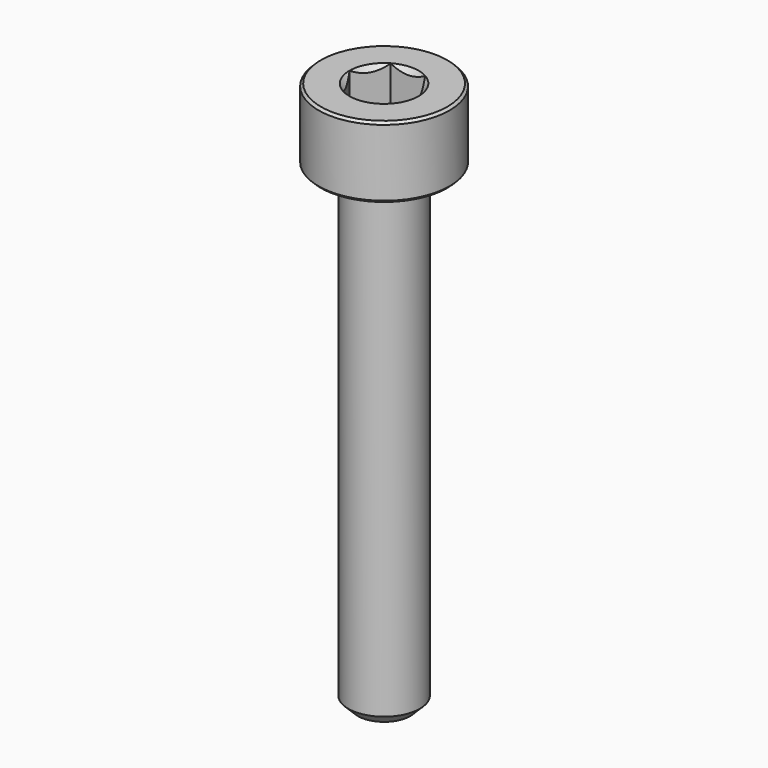
from build123d import *

# Parameters (mm, degrees)
SKETCH001_R     = 3.75
POCKET_DEPTH    = 9.70192
CHAMFER_SIZE    = 0.4
CHAMFER001_SIZE = 0.1


with BuildPart() as pocket:
    # Sketch003 → Revolution001 (revolve)
    with BuildSketch(Plane.XZ):
        Polygon((0, 0.29908), (2.75, 1.3), (2.75, 10), (0, 10), align=None)
    revolve(axis=Axis((0, 0, 0), (0, 0, 1)))

    # Sketch001 → Pocket (cut, through all)
    with BuildSketch(Plane(origin=(0, 0, 10), x_dir=(-1, 0, 0), z_dir=(0, 0, 1))):
        Circle(SKETCH001_R)
        Polygon((-0.721688, 1.25), (0.721688, 1.25), (1.443376, 0), (0.721688, -1.25), (-0.721688, -1.25), (-1.443376, 0), align=None, mode=Mode.SUBTRACT)
    extrude(amount=-POCKET_DEPTH, mode=Mode.SUBTRACT)


with BuildPart() as chamfer001:
    # Sketch → Revolution (revolve)
    with BuildSketch(Plane.XZ):
        Polygon((1.45, 3), (2.75, 3), (2.75, 0), (1.5, 0), (1.5, -20), (0, -20), (0, 1.549999), align=None)
    revolve(axis=Axis((0, 0, 0), (0, 0, 1)))

    # Cut: cut Pocket
    add(pocket.part, mode=Mode.SUBTRACT)

    # Chamfer
    chamfer_edges = [chamfer001.edges().sort_by_distance(p)[0] for p in [
        (-1.5, 0, -20),
    ]]
    chamfer(chamfer_edges, length=CHAMFER_SIZE)

    # Chamfer001
    chamfer001_edges = [chamfer001.edges().sort_by_distance(p)[0] for p in [
        (-2.75, 0, 0),
        (-2.75, 0, 3),
    ]]
    chamfer(chamfer001_edges, length=CHAMFER001_SIZE)


solid = chamfer001.part
